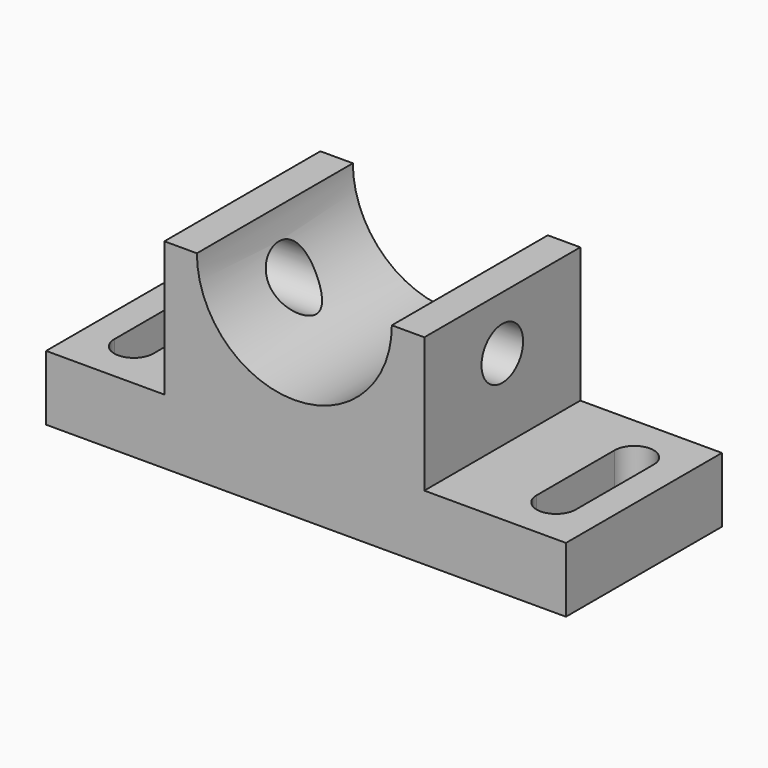
from build123d import *

# Parameters (mm, degrees)
F1_DEPTH = 600
F3_DEPTH = 600.001
F4_R     = 80
F5_DEPTH = 1600.001
F7_DEPTH = 200.001


with BuildPart() as f1:
    # F0 (on Front) → F1 (new body)
    with BuildSketch(Plane.XZ):
        Polygon((-800, 0), (0, 0), (800, 0), (800, 200), (364.102565, 200), (364.102565, 615.384671), (-435.897435, 615.384671), (-435.897435, 200), (-800, 200), align=None)
    extrude(amount=F1_DEPTH)

    # F2 (on face) → F3 (cut, through all)
    with BuildSketch(Plane.XZ.offset(600)):
        with BuildLine():
            Line((264.102565, 615.384671), (-335.897435, 615.384671))
            ThreePointArc((-335.897435, 615.384671), (-35.897435, 315.384671), (264.102565, 615.384671))
        make_face()
    extrude(amount=-F3_DEPTH, mode=Mode.SUBTRACT)

    # F4 (on face) → F5 (cut, through all)
    with BuildSketch(Plane.YZ.offset(800)):
        with Locations((-300, 450)):
            Circle(F4_R)
    extrude(amount=-F5_DEPTH, mode=Mode.SUBTRACT)

    # F6 (on face) → F7 (cut, through all)
    with BuildSketch(Plane.XY.offset(200)):
        with BuildLine():
            Line((-710, -150), (-710, -450))
            ThreePointArc((-710, -450), (-650, -510), (-590, -450))
            Line((-590, -450), (-590, -150))
            ThreePointArc((-590, -150), (-650, -90), (-710, -150))
        make_face()
        with BuildLine():
            Line((-710, -150), (-710, -450))
            ThreePointArc((-710, -450), (-650, -510), (-590, -450))
            Line((-590, -450), (-590, -150))
            ThreePointArc((-590, -150), (-650, -90), (-710, -150))
        make_face()
        with BuildLine():
            Line((590, -150), (590, -450))
            ThreePointArc((590, -450), (650, -510), (710, -450))
            Line((710, -450), (710, -150))
            ThreePointArc((710, -150), (650, -90), (590, -150))
        make_face()
    extrude(amount=-F7_DEPTH, mode=Mode.SUBTRACT)


solid = f1.part
